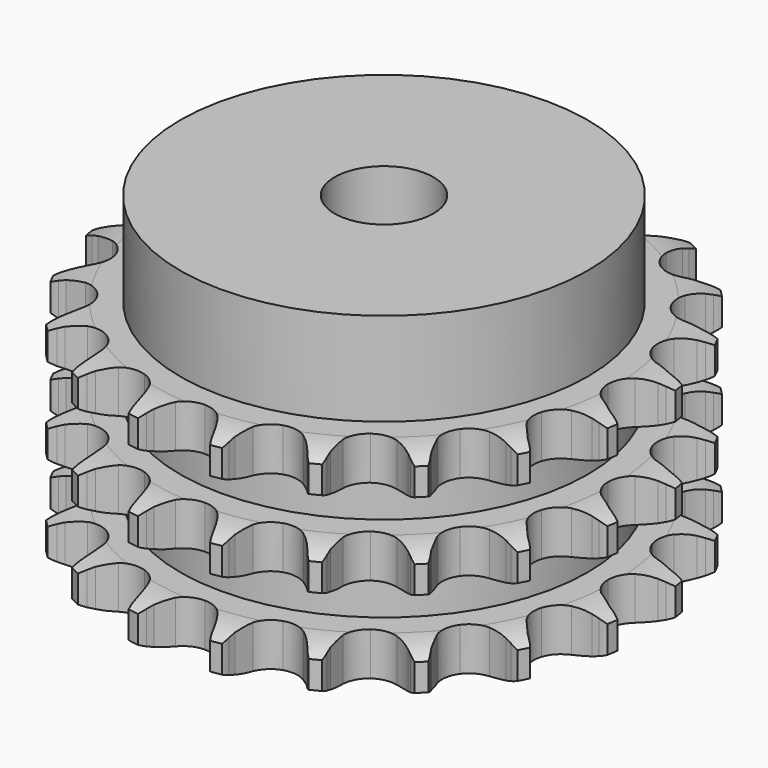
from build123d import *

# Parameters (mm, degrees)
PAD_DEPTH         = 34.9
SKETCH001_R       = 33
PAD001_DEPTH      = 50
SKETCH002_R       = 8
POCKET_DEPTH      = 0.001
POCKET_DEPTH_BACK = 50.001


with BuildPart() as part:
    # Sprocket → Pad (new body)
    with BuildSketch(Plane.XY):
        with BuildLine():
            ThreePointArc((-6.940803, 43.822508), (-5.995983, 42.720524), (-5.298097, 41.447728))
            Line((-5.298097, 41.447728), (-4.88853, 40.473408))
            ThreePointArc((-4.88853, 40.473408), (-4.228423, 39.155204), (-3.399774, 37.935883))
            ThreePointArc((-3.399774, 37.935883), (-1.891298, 36.714343), (0, 36.277703))
            ThreePointArc((0, 36.277703), (1.891298, 36.714343), (3.399774, 37.935883))
            ThreePointArc((3.399774, 37.935883), (4.228423, 39.155204), (4.88853, 40.473408))
            Line((4.88853, 40.473408), (5.298097, 41.447728))
            ThreePointArc((5.298097, 41.447728), (5.995983, 42.720524), (6.940803, 43.822508))
            ThreePointArc((6.940803, 43.822508), (7.498849, 42.482493), (7.769263, 41.056334))
            Line((7.769263, 41.056334), (7.857702, 40.003137))
            ThreePointArc((7.857702, 40.003137), (8.078154, 38.545467), (8.489456, 37.129757))
            ThreePointArc((8.489456, 37.129757), (9.546625, 35.501859), (11.210427, 34.502146))
            ThreePointArc((11.210427, 34.502146), (13.144087, 34.332972), (14.95621, 35.028581))
            Line((14.95621, 35.028581), (17.15624, 36.981859))
            ThreePointArc((17.15624, 36.981859), (17.492032, 37.390102), (17.846842, 37.78193))
            ThreePointArc((17.846842, 37.78193), (18.903887, 38.776772), (20.142996, 39.532855))
            ThreePointArc((20.142996, 39.532855), (20.259641, 38.08598), (20.076113, 36.64606))
            Line((20.076113, 36.64606), (19.834768, 35.617081))
            ThreePointArc((19.834768, 35.617081), (19.593985, 34.16263), (19.547678, 32.689111))
            ThreePointArc((19.547678, 32.689111), (20.050058, 30.814205), (21.323499, 29.349278))
            ThreePointArc((21.323499, 29.349278), (23.110241, 28.590851), (25.048628, 28.692437))
            Line((25.048628, 28.692437), (27.744576, 29.870268))
            ThreePointArc((27.744576, 29.870268), (28.190088, 30.154765), (28.648614, 30.417773))
            ThreePointArc((28.648614, 30.417773), (29.961346, 31.037279), (31.373452, 31.373452))
            ThreePointArc((31.373452, 31.373452), (31.037279, 29.961346), (30.417773, 28.648614))
            Line((30.417773, 28.648614), (29.870268, 27.744576))
            ThreePointArc((29.870268, 27.744576), (29.191821, 26.435718), (28.692437, 25.048628))
            ThreePointArc((28.692437, 25.048628), (28.590851, 23.110241), (29.349278, 21.323499))
            ThreePointArc((29.349278, 21.323499), (30.814205, 20.050058), (32.689111, 19.547678))
            Line((32.689111, 19.547678), (35.617081, 19.834768))
            ThreePointArc((35.617081, 19.834768), (36.128702, 19.96767), (36.64606, 20.076113))
            ThreePointArc((36.64606, 20.076113), (38.08598, 20.259641), (39.532855, 20.142996))
            ThreePointArc((39.532855, 20.142996), (38.776772, 18.903887), (37.78193, 17.846842))
            Line((37.78193, 17.846842), (36.981859, 17.15624))
            ThreePointArc((36.981859, 17.15624), (35.932157, 16.121093), (35.028581, 14.95621))
            ThreePointArc((35.028581, 14.95621), (34.332972, 13.144087), (34.502146, 11.210427))
            ThreePointArc((34.502146, 11.210427), (35.501859, 9.546625), (37.129757, 8.489456))
            Line((37.129757, 8.489456), (40.003137, 7.857702))
            ThreePointArc((40.003137, 7.857702), (40.530787, 7.825999), (41.056334, 7.769263))
            ThreePointArc((41.056334, 7.769263), (42.482493, 7.498849), (43.822508, 6.940803))
            ThreePointArc((43.822508, 6.940803), (42.720524, 5.995983), (41.447728, 5.298097))
            Line((41.447728, 5.298097), (40.473408, 4.88853))
            ThreePointArc((40.473408, 4.88853), (39.155204, 4.228423), (37.935883, 3.399774))
            ThreePointArc((37.935883, 3.399774), (36.714343, 1.891298), (36.277703, 0))
            ThreePointArc((36.277703, 0), (36.714343, -1.891298), (37.935883, -3.399774))
            Line((37.935883, -3.399774), (40.473408, -4.88853))
            ThreePointArc((40.473408, -4.88853), (40.965436, -5.081734), (41.447728, -5.298097))
            ThreePointArc((41.447728, -5.298097), (42.720524, -5.995983), (43.822508, -6.940803))
            ThreePointArc((43.822508, -6.940803), (42.482493, -7.498849), (41.056334, -7.769263))
            Line((41.056334, -7.769263), (40.003137, -7.857702))
            ThreePointArc((40.003137, -7.857702), (38.545467, -8.078154), (37.129757, -8.489456))
            ThreePointArc((37.129757, -8.489456), (35.501859, -9.546625), (34.502146, -11.210427))
            ThreePointArc((34.502146, -11.210427), (34.332972, -13.144087), (35.028581, -14.95621))
            Line((35.028581, -14.95621), (36.981859, -17.15624))
            ThreePointArc((36.981859, -17.15624), (37.390102, -17.492032), (37.78193, -17.846842))
            ThreePointArc((37.78193, -17.846842), (38.776772, -18.903887), (39.532855, -20.142996))
            ThreePointArc((39.532855, -20.142996), (38.08598, -20.259641), (36.64606, -20.076113))
            Line((36.64606, -20.076113), (35.617081, -19.834768))
            ThreePointArc((35.617081, -19.834768), (34.16263, -19.593985), (32.689111, -19.547678))
            ThreePointArc((32.689111, -19.547678), (30.814205, -20.050058), (29.349278, -21.323499))
            ThreePointArc((29.349278, -21.323499), (28.590851, -23.110241), (28.692437, -25.048628))
            Line((28.692437, -25.048628), (29.870268, -27.744576))
            ThreePointArc((29.870268, -27.744576), (30.154765, -28.190088), (30.417773, -28.648614))
            ThreePointArc((30.417773, -28.648614), (31.037279, -29.961346), (31.373452, -31.373452))
            ThreePointArc((31.373452, -31.373452), (29.961346, -31.037279), (28.648614, -30.417773))
            Line((28.648614, -30.417773), (27.744576, -29.870268))
            ThreePointArc((27.744576, -29.870268), (26.435718, -29.191821), (25.048628, -28.692437))
            ThreePointArc((25.048628, -28.692437), (23.110241, -28.590851), (21.323499, -29.349278))
            ThreePointArc((21.323499, -29.349278), (20.050058, -30.814205), (19.547678, -32.689111))
            Line((19.547678, -32.689111), (19.834768, -35.617081))
            ThreePointArc((19.834768, -35.617081), (19.96767, -36.128702), (20.076113, -36.64606))
            ThreePointArc((20.076113, -36.64606), (20.259641, -38.08598), (20.142996, -39.532855))
            ThreePointArc((20.142996, -39.532855), (18.903887, -38.776772), (17.846842, -37.78193))
            Line((17.846842, -37.78193), (17.15624, -36.981859))
            ThreePointArc((17.15624, -36.981859), (16.121093, -35.932157), (14.95621, -35.028581))
            ThreePointArc((14.95621, -35.028581), (13.144087, -34.332972), (11.210427, -34.502146))
            ThreePointArc((11.210427, -34.502146), (9.546625, -35.501859), (8.489456, -37.129757))
            Line((8.489456, -37.129757), (7.857702, -40.003137))
            ThreePointArc((7.857702, -40.003137), (7.825999, -40.530787), (7.769263, -41.056334))
            ThreePointArc((7.769263, -41.056334), (7.498849, -42.482493), (6.940803, -43.822508))
            ThreePointArc((6.940803, -43.822508), (5.995983, -42.720524), (5.298097, -41.447728))
            Line((5.298097, -41.447728), (4.88853, -40.473408))
            ThreePointArc((4.88853, -40.473408), (4.228423, -39.155204), (3.399774, -37.935883))
            ThreePointArc((3.399774, -37.935883), (1.891298, -36.714343), (0, -36.277703))
            ThreePointArc((0, -36.277703), (-1.891298, -36.714343), (-3.399774, -37.935883))
            Line((-3.399774, -37.935883), (-4.88853, -40.473408))
            ThreePointArc((-4.88853, -40.473408), (-5.081734, -40.965436), (-5.298097, -41.447728))
            ThreePointArc((-5.298097, -41.447728), (-5.995983, -42.720524), (-6.940803, -43.822508))
            ThreePointArc((-6.940803, -43.822508), (-7.498849, -42.482493), (-7.769263, -41.056334))
            Line((-7.769263, -41.056334), (-7.857702, -40.003137))
            ThreePointArc((-7.857702, -40.003137), (-8.078154, -38.545467), (-8.489456, -37.129757))
            ThreePointArc((-8.489456, -37.129757), (-9.546625, -35.501859), (-11.210427, -34.502146))
            ThreePointArc((-11.210427, -34.502146), (-13.144087, -34.332972), (-14.95621, -35.028581))
            Line((-14.95621, -35.028581), (-17.15624, -36.981859))
            ThreePointArc((-17.15624, -36.981859), (-17.492032, -37.390102), (-17.846842, -37.78193))
            ThreePointArc((-17.846842, -37.78193), (-18.903887, -38.776772), (-20.142996, -39.532855))
            ThreePointArc((-20.142996, -39.532855), (-20.259641, -38.08598), (-20.076113, -36.64606))
            Line((-20.076113, -36.64606), (-19.834768, -35.617081))
            ThreePointArc((-19.834768, -35.617081), (-19.593985, -34.16263), (-19.547678, -32.689111))
            ThreePointArc((-19.547678, -32.689111), (-20.050058, -30.814205), (-21.323499, -29.349278))
            ThreePointArc((-21.323499, -29.349278), (-23.110241, -28.590851), (-25.048628, -28.692437))
            Line((-25.048628, -28.692437), (-27.744576, -29.870268))
            ThreePointArc((-27.744576, -29.870268), (-28.190088, -30.154765), (-28.648614, -30.417773))
            ThreePointArc((-28.648614, -30.417773), (-29.961346, -31.037279), (-31.373452, -31.373452))
            ThreePointArc((-31.373452, -31.373452), (-31.037279, -29.961346), (-30.417773, -28.648614))
            Line((-30.417773, -28.648614), (-29.870268, -27.744576))
            ThreePointArc((-29.870268, -27.744576), (-29.191821, -26.435718), (-28.692437, -25.048628))
            ThreePointArc((-28.692437, -25.048628), (-28.590851, -23.110241), (-29.349278, -21.323499))
            ThreePointArc((-29.349278, -21.323499), (-30.814205, -20.050058), (-32.689111, -19.547678))
            Line((-32.689111, -19.547678), (-35.617081, -19.834768))
            ThreePointArc((-35.617081, -19.834768), (-36.128702, -19.96767), (-36.64606, -20.076113))
            ThreePointArc((-36.64606, -20.076113), (-38.08598, -20.259641), (-39.532855, -20.142996))
            ThreePointArc((-39.532855, -20.142996), (-38.776772, -18.903887), (-37.78193, -17.846842))
            Line((-37.78193, -17.846842), (-36.981859, -17.15624))
            ThreePointArc((-36.981859, -17.15624), (-35.932157, -16.121093), (-35.028581, -14.95621))
            ThreePointArc((-35.028581, -14.95621), (-34.332972, -13.144087), (-34.502146, -11.210427))
            ThreePointArc((-34.502146, -11.210427), (-35.501859, -9.546625), (-37.129757, -8.489456))
            Line((-37.129757, -8.489456), (-40.003137, -7.857702))
            ThreePointArc((-40.003137, -7.857702), (-40.530787, -7.825999), (-41.056334, -7.769263))
            ThreePointArc((-41.056334, -7.769263), (-42.482493, -7.498849), (-43.822508, -6.940803))
            ThreePointArc((-43.822508, -6.940803), (-42.720524, -5.995983), (-41.447728, -5.298097))
            Line((-41.447728, -5.298097), (-40.473408, -4.88853))
            ThreePointArc((-40.473408, -4.88853), (-39.155204, -4.228423), (-37.935883, -3.399774))
            ThreePointArc((-37.935883, -3.399774), (-36.714343, -1.891298), (-36.277703, 0))
            ThreePointArc((-36.277703, 0), (-36.714343, 1.891298), (-37.935883, 3.399774))
            Line((-37.935883, 3.399774), (-40.473408, 4.88853))
            ThreePointArc((-40.473408, 4.88853), (-40.965436, 5.081734), (-41.447728, 5.298097))
            ThreePointArc((-41.447728, 5.298097), (-42.720524, 5.995983), (-43.822508, 6.940803))
            ThreePointArc((-43.822508, 6.940803), (-42.482493, 7.498849), (-41.056334, 7.769263))
            Line((-41.056334, 7.769263), (-40.003137, 7.857702))
            ThreePointArc((-40.003137, 7.857702), (-38.545467, 8.078154), (-37.129757, 8.489456))
            ThreePointArc((-37.129757, 8.489456), (-35.501859, 9.546625), (-34.502146, 11.210427))
            ThreePointArc((-34.502146, 11.210427), (-34.332972, 13.144087), (-35.028581, 14.95621))
            Line((-35.028581, 14.95621), (-36.981859, 17.15624))
            ThreePointArc((-36.981859, 17.15624), (-37.390102, 17.492032), (-37.78193, 17.846842))
            ThreePointArc((-37.78193, 17.846842), (-38.776772, 18.903887), (-39.532855, 20.142996))
            ThreePointArc((-39.532855, 20.142996), (-38.08598, 20.259641), (-36.64606, 20.076113))
            Line((-36.64606, 20.076113), (-35.617081, 19.834768))
            ThreePointArc((-35.617081, 19.834768), (-34.16263, 19.593985), (-32.689111, 19.547678))
            ThreePointArc((-32.689111, 19.547678), (-30.814205, 20.050058), (-29.349278, 21.323499))
            ThreePointArc((-29.349278, 21.323499), (-28.590851, 23.110241), (-28.692437, 25.048628))
            Line((-28.692437, 25.048628), (-29.870268, 27.744576))
            ThreePointArc((-29.870268, 27.744576), (-30.154765, 28.190088), (-30.417773, 28.648614))
            ThreePointArc((-30.417773, 28.648614), (-31.037279, 29.961346), (-31.373452, 31.373452))
            ThreePointArc((-31.373452, 31.373452), (-29.961346, 31.037279), (-28.648614, 30.417773))
            Line((-28.648614, 30.417773), (-27.744576, 29.870268))
            ThreePointArc((-27.744576, 29.870268), (-26.435718, 29.191821), (-25.048628, 28.692437))
            ThreePointArc((-25.048628, 28.692437), (-23.110241, 28.590851), (-21.323499, 29.349278))
            ThreePointArc((-21.323499, 29.349278), (-20.050058, 30.814205), (-19.547678, 32.689111))
            Line((-19.547678, 32.689111), (-19.834768, 35.617081))
            ThreePointArc((-19.834768, 35.617081), (-19.96767, 36.128702), (-20.076113, 36.64606))
            ThreePointArc((-20.076113, 36.64606), (-20.259641, 38.08598), (-20.142996, 39.532855))
            ThreePointArc((-20.142996, 39.532855), (-18.903887, 38.776772), (-17.846842, 37.78193))
            Line((-17.846842, 37.78193), (-17.15624, 36.981859))
            ThreePointArc((-17.15624, 36.981859), (-16.121093, 35.932157), (-14.95621, 35.028581))
            ThreePointArc((-14.95621, 35.028581), (-13.144087, 34.332972), (-11.210427, 34.502146))
            ThreePointArc((-11.210427, 34.502146), (-9.546625, 35.501859), (-8.489456, 37.129757))
            Line((-8.489456, 37.129757), (-7.857702, 40.003137))
            ThreePointArc((-7.857702, 40.003137), (-7.825999, 40.530787), (-7.769263, 41.056334))
            ThreePointArc((-7.769263, 41.056334), (-7.498849, 42.482493), (-6.940803, 43.822508))
        make_face()
    extrude(amount=PAD_DEPTH)

    # Sketch → Groove (revolve, cut)
    with BuildSketch(Plane.XZ):
        with BuildLine():
            ThreePointArc((37.233431, 0), (40.14032, 0.329167), (42.9, 1.3))
            Line((42.9, 1.3), (42.9, 5.7))
            ThreePointArc((42.9, 5.7), (40.14032, 6.670833), (37.233431, 7))
            Line((33, 7), (37.233431, 7))
            Line((33, 7), (33, 13.95))
            Line((33, 13.95), (37.233431, 13.95))
            ThreePointArc((37.233431, 13.95), (40.14032, 14.279167), (42.9, 15.25))
            Line((42.9, 19.65), (42.9, 15.25))
            ThreePointArc((42.9, 19.65), (40.14032, 20.620833), (37.233431, 20.95))
            Line((33, 20.95), (37.233431, 20.95))
            Line((33, 27.9), (33, 20.95))
            Line((37.233431, 27.9), (33, 27.9))
            ThreePointArc((37.233431, 27.9), (40.14032, 28.229167), (42.9, 29.2))
            Line((42.9, 29.2), (42.9, 33.6))
            ThreePointArc((42.9, 33.6), (40.14032, 34.570833), (37.233431, 34.9))
            Line((37.233431, 34.9), (52.9, 34.9))
            Line((52.9, 34.9), (52.9, 0))
            Line((37.233431, 0), (52.9, 0))
        make_face()
    revolve(axis=Axis((0, 0, 0), (0, 0, 1)), mode=Mode.SUBTRACT)

    # Sketch001 → Pad001 (join)
    with BuildSketch(Plane.XY):
        Circle(SKETCH001_R)
    extrude(amount=PAD001_DEPTH)

    # Sketch002 → Pocket (cut, two sides)
    with BuildSketch(Plane.XY) as pocket_sk:
        Circle(SKETCH002_R)
    extrude(amount=-POCKET_DEPTH, mode=Mode.SUBTRACT)
    extrude(pocket_sk.sketch, amount=POCKET_DEPTH_BACK, mode=Mode.SUBTRACT)


solid = part.part
